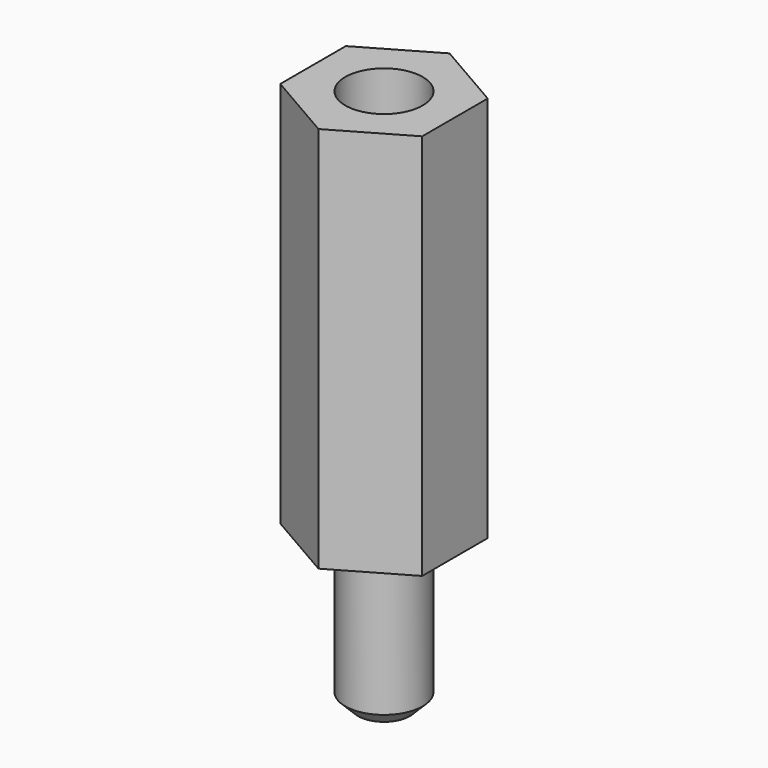
from build123d import *

# Parameters (mm, degrees)
PAD010_DEPTH    = 15
SKETCH026_R     = 1.5
PAD009_DEPTH    = 6
SKETCH024_R     = 1.5
POCKET010_DEPTH = 8.5
CHAMFER008_SIZE = 1.5
CHAMFER007_SIZE = 0.5


with BuildPart() as part:
    # Sketch025 → Pad010 (new body)
    with BuildSketch(Plane.XY):
        Polygon((-2.75, -1.587713), (-2.75, 1.587713), (0, 3.175426), (2.75, 1.587713), (2.75, -1.587713), (0, -3.175426), align=None)
    extrude(amount=PAD010_DEPTH)

    # Sketch026 (on Face7 of Pad010) → Pad009 (new body)
    with BuildSketch(Plane(origin=(0, 0, 0), x_dir=(1, 0, 0), z_dir=(0, 0, -1))):
        Circle(SKETCH026_R)
    extrude(amount=PAD009_DEPTH)

    # Sketch024 (on Face5 of Pad009) → Pocket010 (cut)
    with BuildSketch(Plane.XY.offset(15)):
        Circle(SKETCH024_R)
    extrude(amount=-POCKET010_DEPTH, mode=Mode.SUBTRACT)

    # Chamfer008
    chamfer008_edges = [part.edges().sort_by_distance(p)[0] for p in [
        (-1.5, 0, 6.5),
    ]]
    chamfer(chamfer008_edges, length=CHAMFER008_SIZE)

    # Chamfer007
    chamfer007_edges = [part.edges().sort_by_distance(p)[0] for p in [
        (-1.5, 0, -6),
    ]]
    chamfer(chamfer007_edges, length=CHAMFER007_SIZE)


solid = part.part
